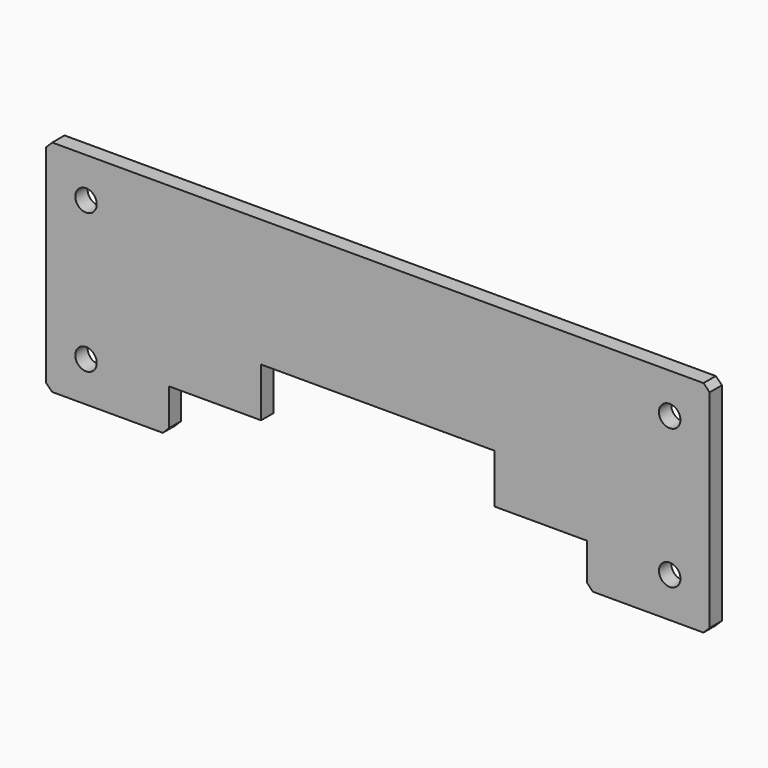
from build123d import *

# Parameters (mm, degrees)
F1_DEPTH = 5
F2_D     = 7
F3_SIZE  = 2


with BuildPart() as f1:
    # F0 (on Front) → F1 (new body)
    with BuildSketch(Plane.XZ):
        Polygon((0, 71.5), (0, 0), (40, 0), (40, 14), (70, 14), (70, 30), (146, 30), (146, 14), (176, 14), (176, 0), (216, 0), (216, 71.5), align=None)
    extrude(amount=-F1_DEPTH)

    # F2 (through all)
    with Locations(Plane.XZ):
        with Locations((203, 58.5), (203, 13), (13, 13), (13, 58.5)):
            Hole(F2_D / 2)

    # F3
    f3_edges = [f1.edges().sort_by_distance(p)[0] for p in [
        (216, 2.5, 71.5),
        (216, 2.5, 0),
        (176, 2.5, 0),
        (40, 2.5, 0),
        (0, 2.5, 0),
        (0, 2.5, 71.5),
    ]]
    chamfer(f3_edges, length=F3_SIZE)


solid = f1.part
